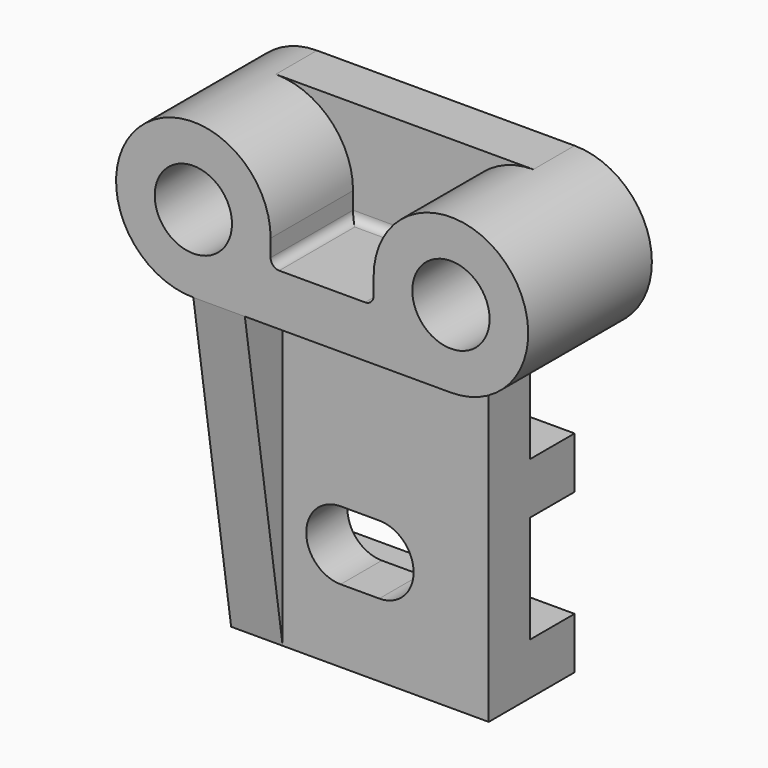
from build123d import *

# Parameters (mm, degrees)
PAD_DEPTH       = 30
POCKET_DEPTH    = 25.001
PAD003_DEPTH    = 12
PAD001_DEPTH    = 36
PAD002_DEPTH    = 12
SKETCH004_R     = 9
POCKET001_DEPTH = 36.001
FILLET_R        = 2


with BuildPart() as pad003:
    # Sketch → Pad (new body, symmetric)
    with BuildSketch(Plane.YZ):
        Polygon((0, 0), (-25, 0), (-25, 72), (-13, 72), (-13, 49), (0, 49), (0, 37), (-13, 37), (-13, 12), (0, 12), align=None)
    extrude(amount=PAD_DEPTH, both=True)

    # Sketch001 → Pocket (cut, through all)
    with BuildSketch(Plane(origin=(0, -25, 0), x_dir=(0, 0, -1), z_dir=(0, -1, 0))):
        with BuildLine():
            ThreePointArc((-17, 4.5), (-25, 12.5), (-33, 4.5))
            Line((-33, 4.5), (-33, -4.5))
            ThreePointArc((-33, -4.5), (-25, -12.5), (-17, -4.5))
            Line((-17, 4.5), (-17, -4.5))
        make_face()
    extrude(amount=-POCKET_DEPTH, mode=Mode.SUBTRACT)

    # Sketch005 → Pad003 (new body)
    with BuildSketch(Plane(origin=(-30, 0, 0), x_dir=(0, 1, 0), z_dir=(-1, 0, 0))):
        Polygon((-25, 0), (-36, -72), (-25, -72), align=None)
    extrude(amount=-PAD003_DEPTH)


with BuildPart() as fusion:
    # Sketch002 → Pad001 (new body)
    with BuildSketch(Plane.XZ):
        with BuildLine():
            Line((-30, 72), (30, 72))
            ThreePointArc((30, 72), (42.727922, 102.727922), (12, 90))
            Line((12, 84), (12, 90))
            Line((-12, 84), (12, 84))
            Line((-12, 84), (-12, 90))
            ThreePointArc((-12, 90), (-42.727922, 102.727922), (-30, 72))
        make_face()
    extrude(amount=PAD001_DEPTH)

    # Sketch003 → Pad002 (new body)
    with BuildSketch(Plane(origin=(0, 0, 0), x_dir=(1, 0, 0), z_dir=(0, 1, 0))):
        with BuildLine():
            ThreePointArc((-30, -72), (-48, -90), (-30, -108))
            Line((-30, -108), (30, -108))
            ThreePointArc((30, -108), (48, -90), (30, -72))
            Line((-30, -72), (30, -72))
        make_face()
    extrude(amount=-PAD002_DEPTH)

    # Sketch004 → Pocket001 (cut, through all)
    with BuildSketch(Plane.XZ.offset(36)):
        with Locations((30, 90)):
            Circle(SKETCH004_R)
        with Locations((-30, 90)):
            Circle(SKETCH004_R)
    extrude(amount=-POCKET001_DEPTH, mode=Mode.SUBTRACT)

    # Fillet
    fillet_edges = [fusion.edges().sort_by_distance(p)[0] for p in [
        (12, -24, 84),
        (0, -12, 84),
        (-12, -24, 84),
    ]]
    fillet(fillet_edges, radius=FILLET_R)

    # Fusion: union Pad003
    add(pad003.part)


solid = fusion.part
